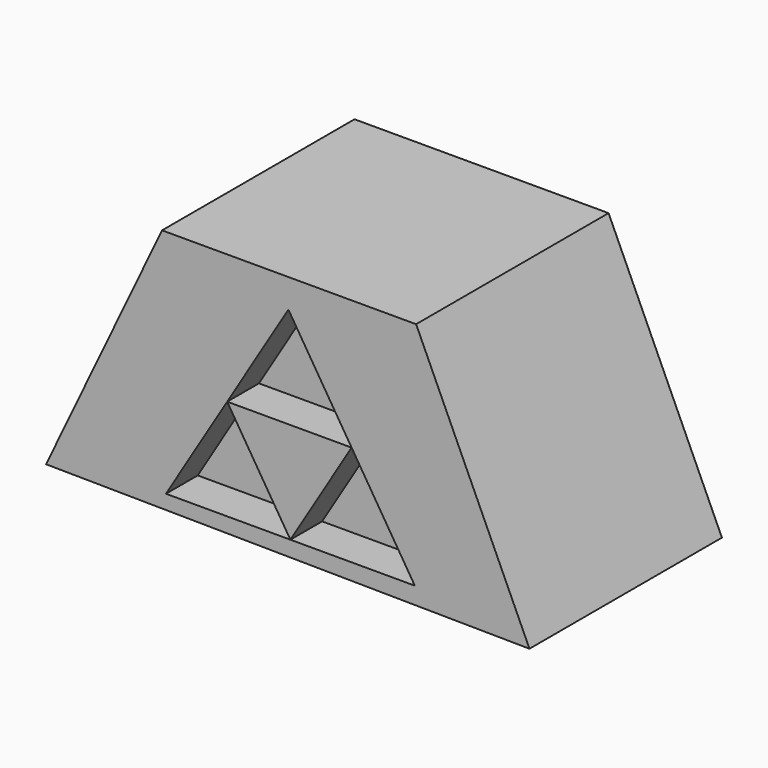
from build123d import *

# Parameters (mm, degrees)
F1_DEPTH = 246.38
F2_DEPTH = 205.74


with BuildPart() as f1:
    # F0 (on Front) → F1 (new body)
    with BuildSketch(Plane.XZ):
        Polygon((-1274.375796, -530.409753), (-1393.136621, -779.940903), (-898.077607, -785.27844), (-1014.169574, -530.409753), align=None)
        Polygon((-1142.938316, -766.596973), (-1270.372629, -766.596973), (-1207.656264, -663.181663), (-1144.939899, -559.766352), (-1080.221951, -663.181663), (-1015.504003, -766.596973), align=None, mode=Mode.SUBTRACT)
        Polygon((-1080.221951, -663.181663), (-1207.656264, -663.181663), (-1142.938316, -766.596973), align=None)
    extrude(amount=F1_DEPTH)


with BuildPart() as f2:
    # F0 (on Front) → F2 (new body)
    with BuildSketch(Plane.XZ):
        Polygon((-1144.939899, -559.766352), (-1207.656264, -663.181663), (-1080.221951, -663.181663), align=None)
        Polygon((-1080.221951, -663.181663), (-1142.938316, -766.596973), (-1015.504003, -766.596973), align=None)
        Polygon((-1207.656264, -663.181663), (-1270.372629, -766.596973), (-1142.938316, -766.596973), align=None)
    extrude(amount=F2_DEPTH)


solid = Compound([f1.part, f2.part])
